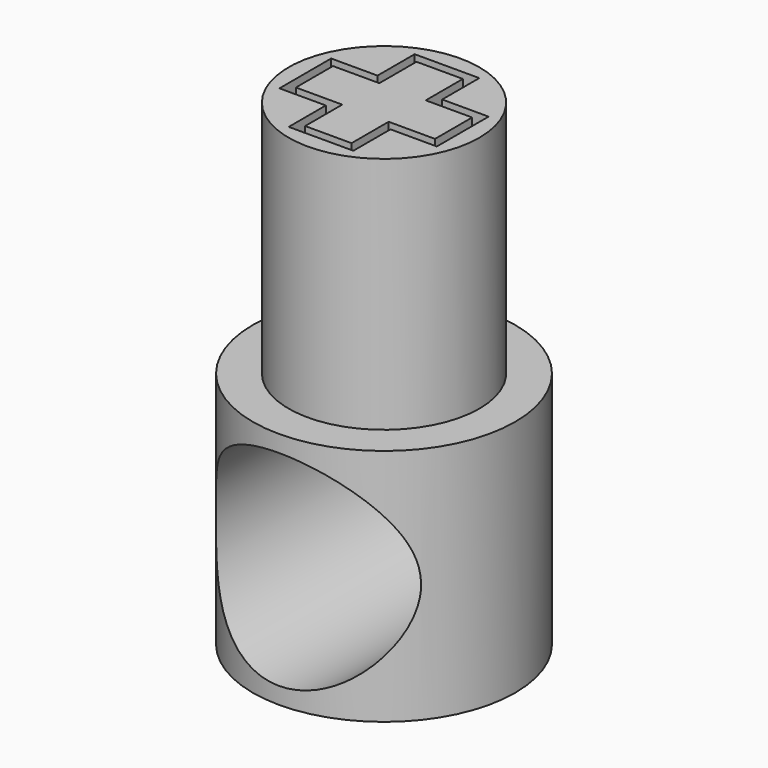
from build123d import *

# Parameters (mm, degrees)
F0_R     = 8.25
F1_DEPTH = 15
F3_DEPTH = 15
F4_R     = 6
F5_DEPTH = 15
F6_R     = 6.45
F7_DEPTH = 12.5


with BuildPart() as f1:
    # F0 (on Top) → F1 (new body)
    with BuildSketch(Plane.XY):
        Circle(F0_R)
    extrude(amount=F1_DEPTH)

    # F2 (on face) → F3 (join)
    with BuildSketch(Plane.XY.offset(15)):
        Polygon((1.458333, 4.375), (-1.458333, 4.375), (-1.458333, 1.458333), (-4.375, 1.458333), (-4.375, -1.458333), (-1.458333, -1.458333), (-1.458333, -4.375), (1.458333, -4.375), (1.458333, -1.458333), (4.375, -1.458333), (4.375, 1.458333), (1.458333, 1.458333), align=None)
    extrude(amount=F3_DEPTH)

    # F6 (on Front) → F7 (cut, symmetric)
    with BuildSketch(Plane.XZ):
        with Locations((0, 7.5)):
            Circle(F6_R)
    extrude(amount=F7_DEPTH, both=True, mode=Mode.SUBTRACT)


with BuildPart() as f5:
    # F4 (on face) → F5 (new body, through all)
    with BuildSketch(Plane.XY.offset(15)):
        Circle(F4_R)
        Polygon((-2.033333, 2.033333), (-2.033333, 4.95), (2.033333, 4.95), (2.033333, 2.033333), (4.95, 2.033333), (4.95, -2.033333), (2.033333, -2.033333), (2.033333, -4.95), (-2.033333, -4.95), (-2.033333, -2.033333), (-4.95, -2.033333), (-4.95, 2.033333), align=None, mode=Mode.SUBTRACT)
    extrude(amount=F5_DEPTH)


solid = Compound([f1.part, f5.part])
